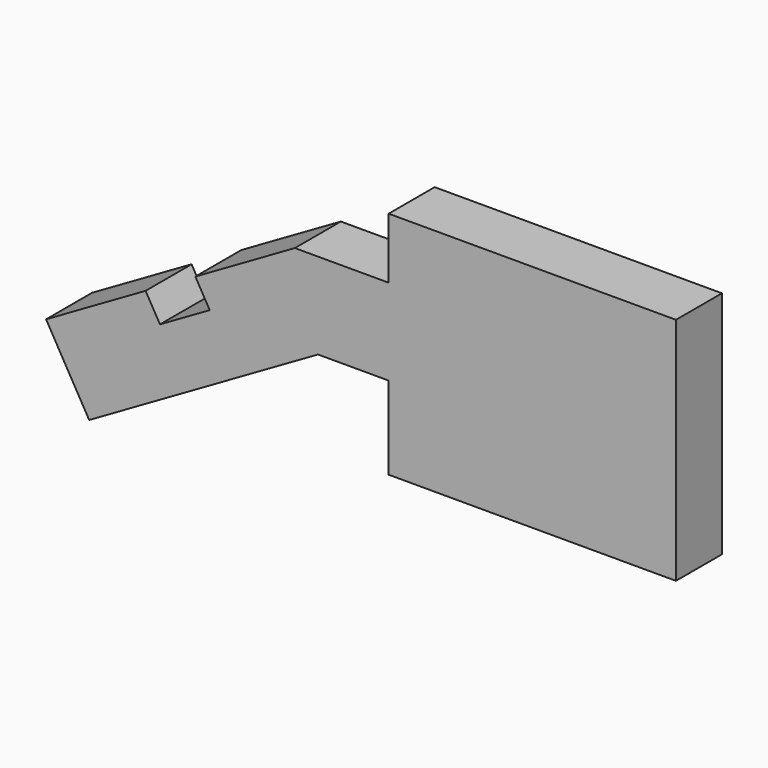
from build123d import *

# Parameters (mm, degrees)
F1_DEPTH = 30


with BuildPart() as f1:
    # F0 (on Front) → F1 (new body)
    with BuildSketch(Plane.XZ):
        Polygon((-54.514028, 15.14498), (-106.475553, -14.85502), (-83.975553, -53.826163), (35.485972, 15.14498), (72.409391, 15.14498), (143.428258, 15.14498), (143.428258, 60.14498), (72.409391, 60.14498), (23.428258, 60.14498), (-28.533266, 30.14498), (-21.033266, 17.154599), (-47.014028, 2.154599), align=None)
        Polygon((143.428258, 15.14498), (72.409391, 15.14498), (72.409391, -28.122669), (222.409391, -28.122669), (222.409391, 91.877331), (72.409391, 91.877331), (72.409391, 84.429644), (72.409391, 60.14498), (143.428258, 60.14498), align=None)
    extrude(amount=F1_DEPTH)


solid = f1.part
